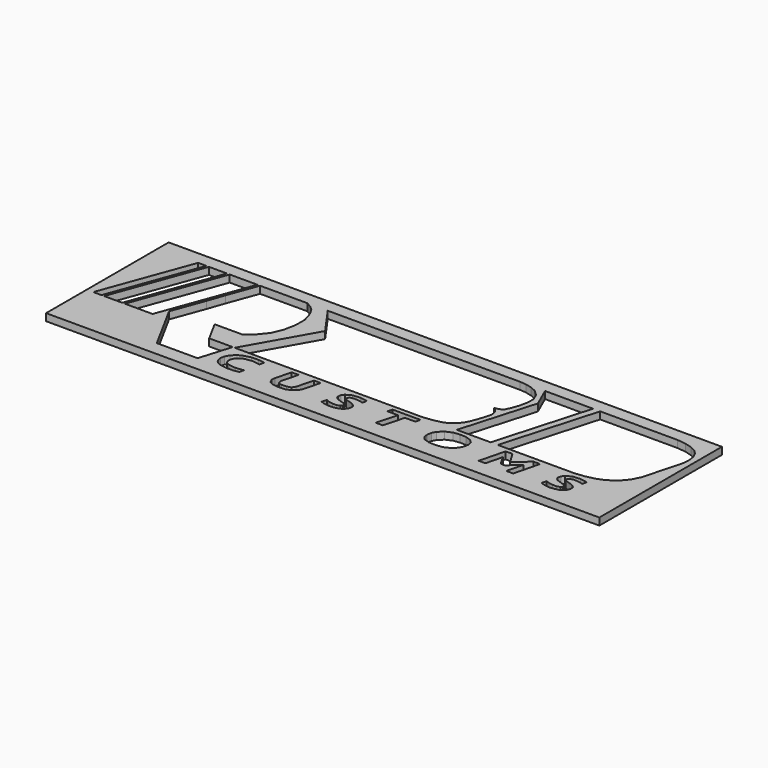
from build123d import *

# Parameters (mm, degrees)
F1_W     = 147.445217
F1_H     = 40.835245
F2_DEPTH = 1.905
F3_DEPTH = 1.906


with BuildPart() as f2:
    # F0 (on Top) + F1 (on Top) → F2 (new body)
    with BuildSketch(Plane.XY):
        Polygon((42.26025, -9.553291), (40.420404, -9.553291), (38.700564, -16.373893), (40.500408, -16.373893), (41.607537, -11.983238), (43.15961, -14.586009), (44.273375, -14.586009), (47.158648, -11.963491), (46.046542, -16.373893), (47.886361, -16.373893), (49.606202, -9.553291), (47.819709, -9.553291), (44.214402, -12.830315), align=None)
        Polygon((29.917755, -9.634846), (28.332985, -9.553291), (26.635754, -9.763923), (24.965709, -10.50951), (23.745584, -11.646714), (23.1782, -12.713011), (22.952343, -13.914566), (23.152834, -15.070795), (23.88242, -15.857454), (25.378544, -16.360969), (27.121075, -16.439528), (28.977644, -16.249205), (30.549758, -15.509504), (31.717439, -14.427099), (32.253651, -13.427587), (32.531096, -12.089517), (32.229543, -10.866503), (31.397049, -10.130201), align=None)
        Polygon((14.62684, -10.841244), (17.424403, -10.841244), (17.74383, -9.553291), (10.28095, -9.553291), (9.961496, -10.841244), (12.746216, -10.841244), (11.277358, -16.373893), (11.465835, -16.373893), (13.157982, -16.373893), align=None)
        Polygon((56.339068, -15.014953), (55.490412, -14.687472), (55.122208, -16.017756), (56.192064, -16.349089), (57.508835, -16.543587), (58.799839, -16.437762), (59.846042, -16.187102), (60.677092, -15.740258), (61.325604, -15.027315), (61.591757, -14.205389), (61.50196, -13.414743), (60.769832, -12.829886), (60.285608, -12.613207), (59.582003, -12.381357), (58.786541, -12.133024), (58.278932, -11.842148), (58.187797, -11.37454), (58.609997, -10.879694), (59.613041, -10.67024), (60.794662, -10.763863), (62.054494, -11.035581), (62.313771, -9.820594), (60.417119, -9.532099), (58.370307, -9.718569), (56.947096, -10.485482), (56.439674, -11.196605), (56.290075, -12.055723), (56.520775, -12.604832), (57.020036, -12.952327), (57.556891, -13.173555), (58.244843, -13.400428), (58.935337, -13.616893), (59.390395, -13.820515), (59.670221, -14.179997), (59.675305, -14.564095), (59.339771, -14.98148), (58.491169, -15.252395), (57.481382, -15.21828), align=None)
        Polygon((-2.253367, -15.024023), (-3.102049, -14.696516), (-3.470227, -16.026827), (-2.400371, -16.35816), (-1.0836, -16.552657), (0.207404, -16.446833), (1.253608, -16.196172), (2.084657, -15.749328), (2.733169, -15.036385), (2.999322, -14.214433), (2.909498, -13.423814), (2.177397, -12.838957), (1.693173, -12.622278), (0.989568, -12.390428), (0.194106, -12.142095), (-0.313503, -11.851218), (-0.404665, -11.383611), (0.017563, -10.888765), (1.020607, -10.67931), (2.202228, -10.772933), (3.46206, -11.044652), (3.721309, -9.829665), (1.904345, -9.553291), (1.691612, -9.553291), (-0.222128, -9.72764), (-1.645338, -10.494526), (-2.15276, -11.205676), (-2.302359, -12.064794), (-2.07166, -12.613903), (-1.572399, -12.961398), (-1.035571, -13.182626), (-0.347592, -13.409499), (0.342876, -13.625964), (0.797961, -13.829559), (1.07776, -14.189068), (1.08287, -14.573166), (0.747336, -14.990523), (-0.101266, -15.261466), (-1.111079, -15.227351), align=None)
        Polygon((1.824658, -9.54117), (1.691612, -9.553291), (1.904345, -9.553291), align=None)
        Polygon((-8.857585, -9.553291), (-10.657188, -9.553291), (-11.816841, -14.034652), (-12.346097, -14.874986), (-13.419593, -15.230267), (-14.821612, -15.235084), (-15.367136, -15.074461), (-15.74096, -14.75763), (-15.899817, -14.309421), (-15.838891, -13.838576), (-14.729995, -9.553291), (-16.583702, -9.553291), (-17.666214, -13.736605), (-17.740786, -14.839988), (-17.264189, -15.758801), (-16.239685, -16.291535), (-14.860811, -16.499919), (-12.908639, -16.393024), (-11.656647, -15.907945), (-10.58176, -15.079009), (-10.052691, -14.171729), align=None)
        Polygon((-25.171344, -16.212922), (-24.914422, -15.03593), (-26.93536, -15.295688), (-28.804505, -15.103385), (-29.776618, -14.648193), (-30.226164, -13.746344), (-30.160181, -12.967418), (-29.766611, -12.19205), (-29.022362, -11.456631), (-28.042864, -10.957771), (-26.030194, -10.682013), (-24.03026, -10.985224), (-23.748855, -9.695933), (-25.460053, -9.485889), (-27.313545, -9.52458), (-29.198584, -10.015734), (-30.332524, -10.610732), (-31.367435, -11.593226), (-31.966153, -12.669451), (-32.192652, -13.698342), (-32.090439, -14.505256), (-31.75429, -15.239605), (-31.154208, -15.810495), (-30.334852, -16.206768), (-28.660498, -16.510488), (-26.832934, -16.510702), align=None)
        Polygon((68.761004, -3.119221), (69.835383, -0.890354), (72.597734, 9.40565), (72.733366, 11.135979), (72.507429, 12.82058), (71.773668, 14.333668), (70.74087, 15.372353), (69.334516, 16.01926), (67.407308, 16.561305), (65.126826, 16.811404), (44.529253, 16.811404), (37.341543, -8.327092), (57.74411, -8.327092), (60.462018, -8.018609), (62.777204, -7.476163), (64.73339, -6.706976), (67.007932, -5.168147), align=None)
        Polygon((35.443768, -8.327092), (42.631478, 16.811404), (29.827476, 16.811404), (32.175387, 11.503836), (26.429376, -8.327092), align=None)
        Polygon((24.880889, 16.656186), (23.176273, 16.811404), (-0.768508, 16.811404), (-8.499949, 16.811404), (-28.071628, 16.811404), (-22.777438, 9.314542), (-32.756023, -8.327092), (-22.072362, -8.327092), (-5.072443, -8.327092), (2.306206, -8.327092), (2.725008, -8.327092), (17.245987, -8.327092), (19.95073, -7.999425), (22.205953, -7.493046), (23.486147, -6.812773), (24.592929, -5.922056), (25.556078, -4.766871), (26.194904, -3.502624), (26.819602, -1.900836), (27.469854, 0.108356), (27.808438, 1.476286), (27.790511, 2.234369), (27.501374, 3.083559), (26.98456, 3.794014), (26.328395, 4.255735), (27.183579, 4.407448), (27.934518, 4.656637), (28.506959, 5.185572), (29.070384, 6.277824), (29.81779, 8.464281), (30.296368, 10.747118), (30.271324, 12.452349), (29.515943, 14.240019), (28.058671, 15.591146), (26.622884, 16.232166), align=None)
        Polygon((-32.121852, 16.041495), (-33.510814, 16.811404), (-46.106431, 16.811404), (-49.000186, 8.947194), (-50.5308, 4.537568), (-53.685946, -4.03699), (-46.728829, -16.814797), (-35.850215, -16.814797), (-33.280007, -8.327092), (-39.556129, -8.327092), (-42.640502, -2.662156), (-35.372039, -2.662156), (-33.022176, -0.803259), (-31.090687, 1.587703), (-29.855605, 4.522236), (-29.238479, 7.615198), (-29.233716, 10.614644), (-30.100326, 13.474096), (-30.974133, 14.971879), align=None)
        Polygon((-62.620561, 16.811759), (-71.421859, -7.107054), (-69.223606, -7.107054), (-60.422308, 16.811759), align=None)
        Polygon((-63.000075, -7.107054), (-55.619697, -7.107054), (-46.8184, 16.811759), (-54.198777, 16.811759), align=None)
        Polygon((-59.738509, 16.811759), (-68.539806, -7.107054), (-63.725303, -7.107054), (-54.924006, 16.811759), align=None)
    with BuildSketch(Plane.XY):
        with Locations((0.561915, -0.239474)):
            Rectangle(F1_W, F1_H)
    extrude(amount=F2_DEPTH)

    # F0 (on Top) → F3 (cut, through all)
    with BuildSketch(Plane.XY):
        Polygon((42.26025, -9.553291), (40.420404, -9.553291), (38.700564, -16.373893), (40.500408, -16.373893), (41.607537, -11.983238), (43.15961, -14.586009), (44.273375, -14.586009), (47.158648, -11.963491), (46.046542, -16.373893), (47.886361, -16.373893), (49.606202, -9.553291), (47.819709, -9.553291), (44.214402, -12.830315), align=None)
        Polygon((29.917755, -9.634846), (28.332985, -9.553291), (26.635754, -9.763923), (24.965709, -10.50951), (23.745584, -11.646714), (23.1782, -12.713011), (22.952343, -13.914566), (23.152834, -15.070795), (23.88242, -15.857454), (25.378544, -16.360969), (27.121075, -16.439528), (28.977644, -16.249205), (30.549758, -15.509504), (31.717439, -14.427099), (32.253651, -13.427587), (32.531096, -12.089517), (32.229543, -10.866503), (31.397049, -10.130201), align=None)
        Polygon((14.62684, -10.841244), (17.424403, -10.841244), (17.74383, -9.553291), (10.28095, -9.553291), (9.961496, -10.841244), (12.746216, -10.841244), (11.277358, -16.373893), (11.465835, -16.373893), (13.157982, -16.373893), align=None)
        Polygon((56.339068, -15.014953), (55.490412, -14.687472), (55.122208, -16.017756), (56.192064, -16.349089), (57.508835, -16.543587), (58.799839, -16.437762), (59.846042, -16.187102), (60.677092, -15.740258), (61.325604, -15.027315), (61.591757, -14.205389), (61.50196, -13.414743), (60.769832, -12.829886), (60.285608, -12.613207), (59.582003, -12.381357), (58.786541, -12.133024), (58.278932, -11.842148), (58.187797, -11.37454), (58.609997, -10.879694), (59.613041, -10.67024), (60.794662, -10.763863), (62.054494, -11.035581), (62.313771, -9.820594), (60.417119, -9.532099), (58.370307, -9.718569), (56.947096, -10.485482), (56.439674, -11.196605), (56.290075, -12.055723), (56.520775, -12.604832), (57.020036, -12.952327), (57.556891, -13.173555), (58.244843, -13.400428), (58.935337, -13.616893), (59.390395, -13.820515), (59.670221, -14.179997), (59.675305, -14.564095), (59.339771, -14.98148), (58.491169, -15.252395), (57.481382, -15.21828), align=None)
        Polygon((-2.253367, -15.024023), (-3.102049, -14.696516), (-3.470227, -16.026827), (-2.400371, -16.35816), (-1.0836, -16.552657), (0.207404, -16.446833), (1.253608, -16.196172), (2.084657, -15.749328), (2.733169, -15.036385), (2.999322, -14.214433), (2.909498, -13.423814), (2.177397, -12.838957), (1.693173, -12.622278), (0.989568, -12.390428), (0.194106, -12.142095), (-0.313503, -11.851218), (-0.404665, -11.383611), (0.017563, -10.888765), (1.020607, -10.67931), (2.202228, -10.772933), (3.46206, -11.044652), (3.721309, -9.829665), (1.904345, -9.553291), (1.691612, -9.553291), (-0.222128, -9.72764), (-1.645338, -10.494526), (-2.15276, -11.205676), (-2.302359, -12.064794), (-2.07166, -12.613903), (-1.572399, -12.961398), (-1.035571, -13.182626), (-0.347592, -13.409499), (0.342876, -13.625964), (0.797961, -13.829559), (1.07776, -14.189068), (1.08287, -14.573166), (0.747336, -14.990523), (-0.101266, -15.261466), (-1.111079, -15.227351), align=None)
        Polygon((1.824658, -9.54117), (1.691612, -9.553291), (1.904345, -9.553291), align=None)
        Polygon((-8.857585, -9.553291), (-10.657188, -9.553291), (-11.816841, -14.034652), (-12.346097, -14.874986), (-13.419593, -15.230267), (-14.821612, -15.235084), (-15.367136, -15.074461), (-15.74096, -14.75763), (-15.899817, -14.309421), (-15.838891, -13.838576), (-14.729995, -9.553291), (-16.583702, -9.553291), (-17.666214, -13.736605), (-17.740786, -14.839988), (-17.264189, -15.758801), (-16.239685, -16.291535), (-14.860811, -16.499919), (-12.908639, -16.393024), (-11.656647, -15.907945), (-10.58176, -15.079009), (-10.052691, -14.171729), align=None)
        Polygon((-25.171344, -16.212922), (-24.914422, -15.03593), (-26.93536, -15.295688), (-28.804505, -15.103385), (-29.776618, -14.648193), (-30.226164, -13.746344), (-30.160181, -12.967418), (-29.766611, -12.19205), (-29.022362, -11.456631), (-28.042864, -10.957771), (-26.030194, -10.682013), (-24.03026, -10.985224), (-23.748855, -9.695933), (-25.460053, -9.485889), (-27.313545, -9.52458), (-29.198584, -10.015734), (-30.332524, -10.610732), (-31.367435, -11.593226), (-31.966153, -12.669451), (-32.192652, -13.698342), (-32.090439, -14.505256), (-31.75429, -15.239605), (-31.154208, -15.810495), (-30.334852, -16.206768), (-28.660498, -16.510488), (-26.832934, -16.510702), align=None)
        Polygon((68.761004, -3.119221), (69.835383, -0.890354), (72.597734, 9.40565), (72.733366, 11.135979), (72.507429, 12.82058), (71.773668, 14.333668), (70.74087, 15.372353), (69.334516, 16.01926), (67.407308, 16.561305), (65.126826, 16.811404), (44.529253, 16.811404), (37.341543, -8.327092), (57.74411, -8.327092), (60.462018, -8.018609), (62.777204, -7.476163), (64.73339, -6.706976), (67.007932, -5.168147), align=None)
        Polygon((35.443768, -8.327092), (42.631478, 16.811404), (29.827476, 16.811404), (32.175387, 11.503836), (26.429376, -8.327092), align=None)
        Polygon((24.880889, 16.656186), (23.176273, 16.811404), (-0.768508, 16.811404), (-8.499949, 16.811404), (-28.071628, 16.811404), (-22.777438, 9.314542), (-32.756023, -8.327092), (-22.072362, -8.327092), (-5.072443, -8.327092), (2.306206, -8.327092), (2.725008, -8.327092), (17.245987, -8.327092), (19.95073, -7.999425), (22.205953, -7.493046), (23.486147, -6.812773), (24.592929, -5.922056), (25.556078, -4.766871), (26.194904, -3.502624), (26.819602, -1.900836), (27.469854, 0.108356), (27.808438, 1.476286), (27.790511, 2.234369), (27.501374, 3.083559), (26.98456, 3.794014), (26.328395, 4.255735), (27.183579, 4.407448), (27.934518, 4.656637), (28.506959, 5.185572), (29.070384, 6.277824), (29.81779, 8.464281), (30.296368, 10.747118), (30.271324, 12.452349), (29.515943, 14.240019), (28.058671, 15.591146), (26.622884, 16.232166), align=None)
        Polygon((-32.121852, 16.041495), (-33.510814, 16.811404), (-46.106431, 16.811404), (-49.000186, 8.947194), (-50.5308, 4.537568), (-53.685946, -4.03699), (-46.728829, -16.814797), (-35.850215, -16.814797), (-33.280007, -8.327092), (-39.556129, -8.327092), (-42.640502, -2.662156), (-35.372039, -2.662156), (-33.022176, -0.803259), (-31.090687, 1.587703), (-29.855605, 4.522236), (-29.238479, 7.615198), (-29.233716, 10.614644), (-30.100326, 13.474096), (-30.974133, 14.971879), align=None)
        Polygon((-62.620561, 16.811759), (-71.421859, -7.107054), (-69.223606, -7.107054), (-60.422308, 16.811759), align=None)
        Polygon((-63.000075, -7.107054), (-55.619697, -7.107054), (-46.8184, 16.811759), (-54.198777, 16.811759), align=None)
        Polygon((-59.738509, 16.811759), (-68.539806, -7.107054), (-63.725303, -7.107054), (-54.924006, 16.811759), align=None)
    extrude(amount=F3_DEPTH, mode=Mode.SUBTRACT)


solid = f2.part
